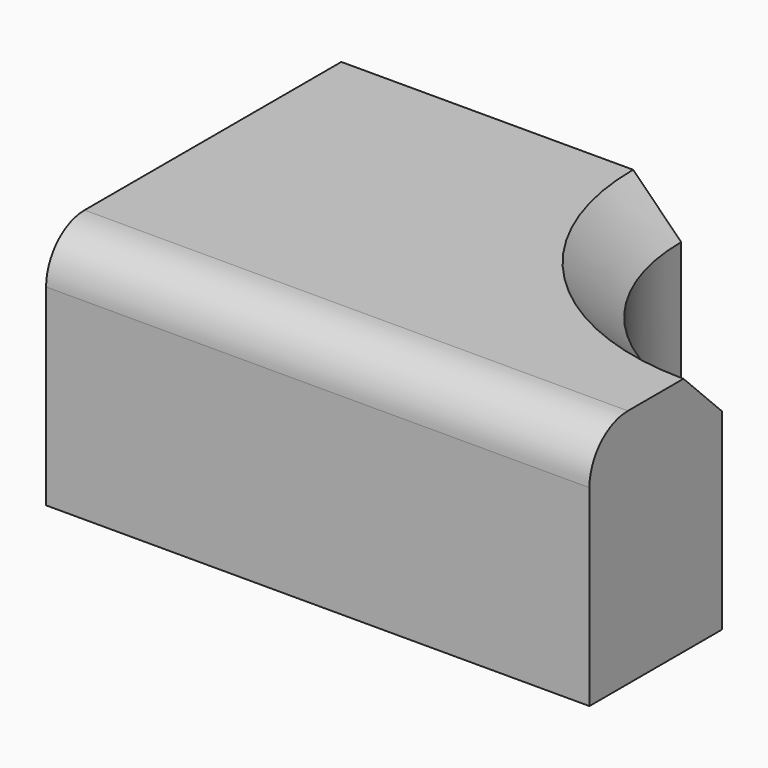
from build123d import *

# Parameters (mm, degrees)
F1_DEPTH = 25.4
F2_R     = 5.08
F3_SIZE  = 5.08


with BuildPart() as f1:
    # F0 (on Top) → F1 (new body)
    with BuildSketch(Plane.XY):
        with BuildLine():
            ThreePointArc((0, -21.4998775326), (-15.202709198, -15.202709198), (-21.4998775326, 0))
            Line((-21.4998775326, 0), (-57.4172474444, 0))
            Line((-57.4172474444, 0), (-57.4172474444, -38.9976762235))
            Line((-57.4172474444, -38.9976762235), (0, -38.9976762235))
            Line((0, -38.9976762235), (0, -21.4998775326))
        make_face()
    extrude(amount=F1_DEPTH)

    # F2
    f2_edges = [f1.edges().sort_by_distance(p)[0] for p in [
        (-28.708624, -38.997676, 25.4),
    ]]
    fillet(f2_edges, radius=F2_R)

    # F3
    f3_edges = [f1.edges().sort_by_distance(p)[0] for p in [
        (-15.202709, -15.202709, 25.4),
    ]]
    chamfer(f3_edges, length=F3_SIZE)


solid = f1.part
